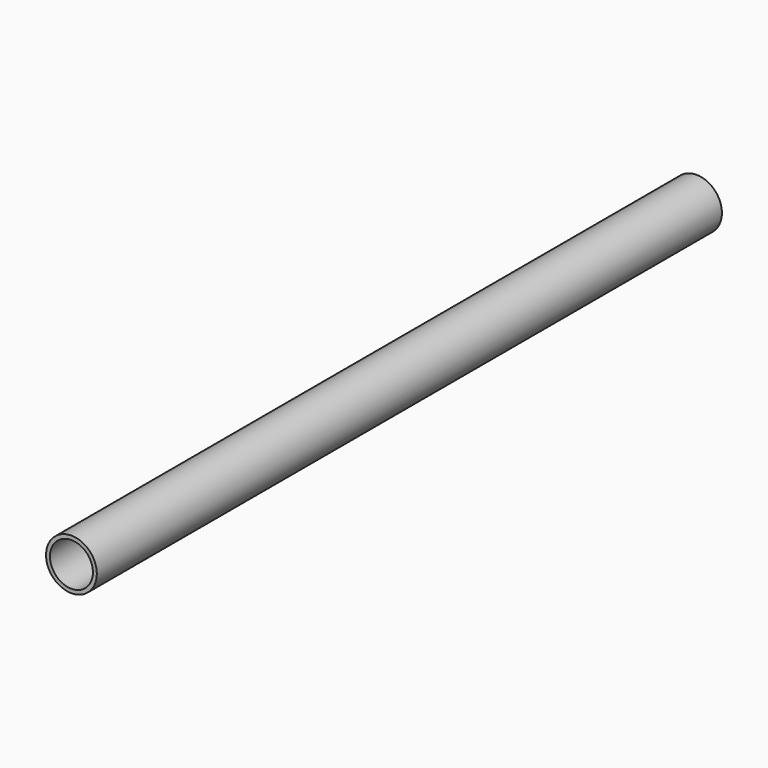
from build123d import *

# Parameters (mm, degrees)
F0_R     = 16.25
F1_DEPTH = 500
F2_T     = -2.5


with BuildPart() as f1:
    # F0 (on Front) → F1 (new body)
    with BuildSketch(Plane.XZ):
        Circle(F0_R)
    extrude(amount=-F1_DEPTH)

    # F2
    f2_openings = [f1.faces().sort_by_distance(p)[0] for p in [
        (0, 0, 0),
        (0, 500, 0),
    ]]
    offset(amount=F2_T, openings=f2_openings)


solid = f1.part
